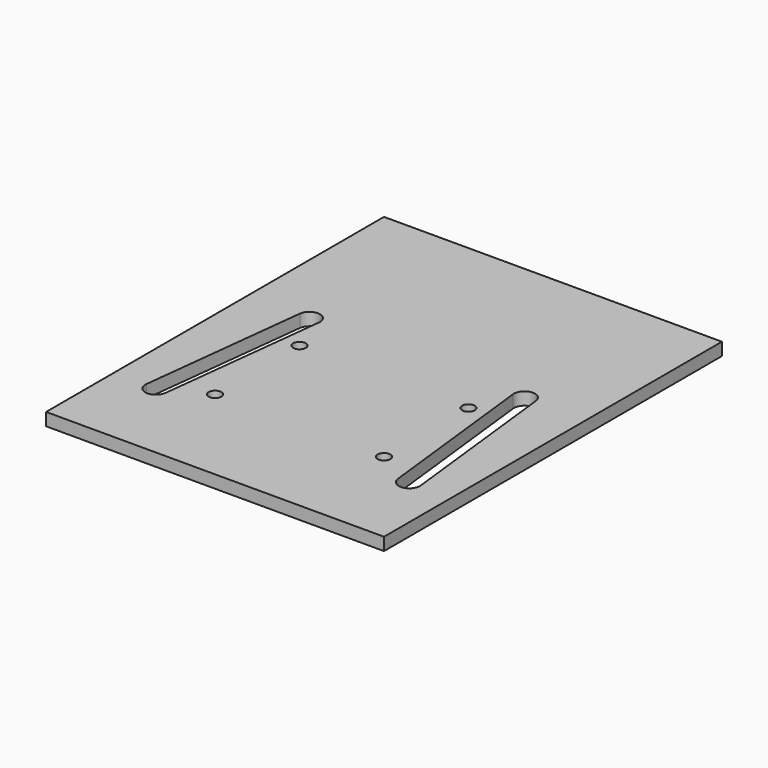
from build123d import *

# Parameters (mm, degrees)
F0_W     = 40
F0_H     = 100
F1_DEPTH = 3
F4_D     = 3
F7_DEPTH = 41.597918


with BuildPart() as f1:
    # F0 (on Top) → F1 (new body)
    with BuildSketch(Plane.XY):
        with Locations((20, 50)):
            Rectangle(F0_W, F0_H)
    extrude(amount=F1_DEPTH)

    # F4 (through all)
    with Locations(Plane.XY.offset(3)):
        with Locations((20, 50), (20, 25)):
            Hole(F4_D / 2)

    # F6 (on face) → F7 (cut)
    with BuildSketch(Plane.XY.offset(3)):
        with BuildLine():
            ThreePointArc((27.516141, 19.716375), (30.283625, 17.516141), (32.483859, 20.283625))
            Line((32.483859, 20.283625), (27.945864, 60.025373))
            ThreePointArc((27.945864, 60.025373), (25.17838, 62.225608), (22.978145, 59.458124))
            Line((22.978145, 59.458124), (27.516141, 19.716375))
        make_face()
    extrude(amount=-F7_DEPTH, mode=Mode.SUBTRACT)

    # F8: F1 across plane


with BuildPart() as f1_1:
    add(f1.part)
    add(f1.part.mirror(Plane.YZ))


solid = f1_1.part
